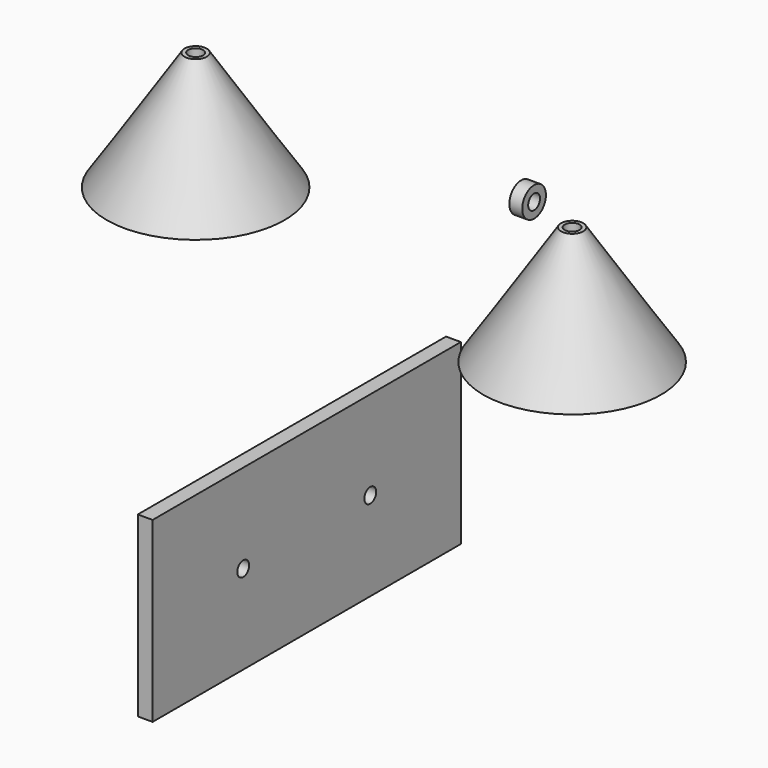
from build123d import *

# Parameters (mm, degrees)
F3_R      = 1.5875
F4_DEPTH  = 25.908
F5_R      = 1.5875
F6_DEPTH  = 25.4
F7_R      = 3.175
F7_R_2    = 1.5875
F8_DEPTH  = 2.7686
F9_W      = 82.55
F9_H      = 38.1
F9_R      = 1.5875
F10_DEPTH = 3.175


with BuildPart() as f1:
    # F0 (on Front) → F1 (revolve)
    with BuildSketch(Plane.XZ):
        Polygon((-36.499815, 58.364228), (-38.881065, 58.364228), (-55.549815, 32.964228), (-36.499815, 32.964228), align=None)
    revolve(axis=Axis((-36.499815, 0, 45.664228), (0, 0, -1)))

    # F3 (on face) → F4 (cut)
    with BuildSketch(Plane.XY.offset(58.364228)):
        with Locations((-36.499815, 0)):
            Circle(F3_R)
    extrude(amount=-F4_DEPTH, mode=Mode.SUBTRACT)


with BuildPart() as f2:
    # F0 (on Front) → F2 (revolve)
    with BuildSketch(Plane.XZ):
        Polygon((44.168683, 26.261346), (44.168683, 51.661346), (41.787433, 51.661346), (25.118683, 26.261346), align=None)
    revolve(axis=Axis((44.168683, 0, 38.961346), (0, 0, -1)))

    # F5 (on face) → F6 (cut)
    with BuildSketch(Plane.XY.offset(51.661346)):
        with Locations((44.168683, 0)):
            Circle(F5_R)
    extrude(amount=-F6_DEPTH, mode=Mode.SUBTRACT)


with BuildPart() as f8:
    # F7 (on Right) → F8 (new body)
    with BuildSketch(Plane.YZ):
        with Locations((41.554622, 26.093636)):
            Circle(F7_R)
        with Locations((41.554622, 26.093636)):
            Circle(F7_R_2, mode=Mode.SUBTRACT)
    extrude(amount=F8_DEPTH)


with BuildPart() as f10:
    # F9 (on Right) → F10 (new body)
    with BuildSketch(Plane.YZ):
        with Locations((-19.841883, -11.074597)):
            Rectangle(F9_W, F9_H)
        with Locations((-36.859883, -11.074597)):
            Circle(F9_R, mode=Mode.SUBTRACT)
        with Locations((-2.823883, -11.074597)):
            Circle(F9_R, mode=Mode.SUBTRACT)
    extrude(amount=F10_DEPTH)


solid = Compound([f1.part, f2.part, f8.part, f10.part])
